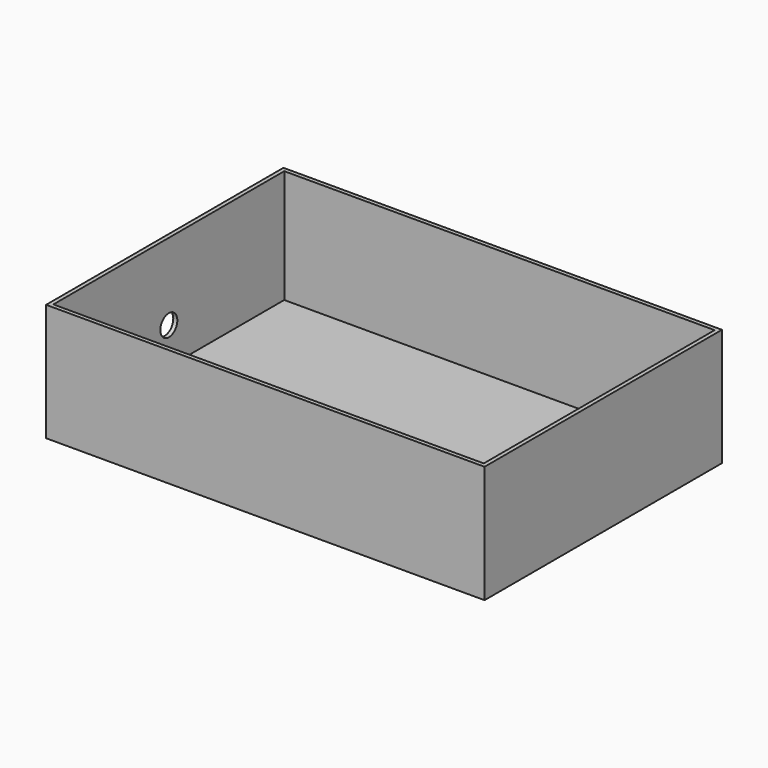
from build123d import *

# Parameters (mm, degrees)
F0_W     = 433
F0_H     = 293
F1_DEPTH = 116
F2_T     = -4
F4_D     = 21
F4_DEPTH = 5


with BuildPart() as f1:
    # F0 (on Top) → F1 (new body)
    with BuildSketch(Plane.XY):
        Rectangle(F0_W, F0_H)
    extrude(amount=F1_DEPTH)

    # F2
    f2_openings = [f1.faces().sort_by_distance(p)[0] for p in [
        (0, 0, 116),
    ]]
    offset(amount=F2_T, openings=f2_openings)

    # F4
    with Locations(Plane(origin=(-216.5, 0, 0), x_dir=(0, -1, 0), z_dir=(-1, 0, 0))):
        with Locations((0, 40)):
            Hole(F4_D / 2, depth=F4_DEPTH)


solid = f1.part
